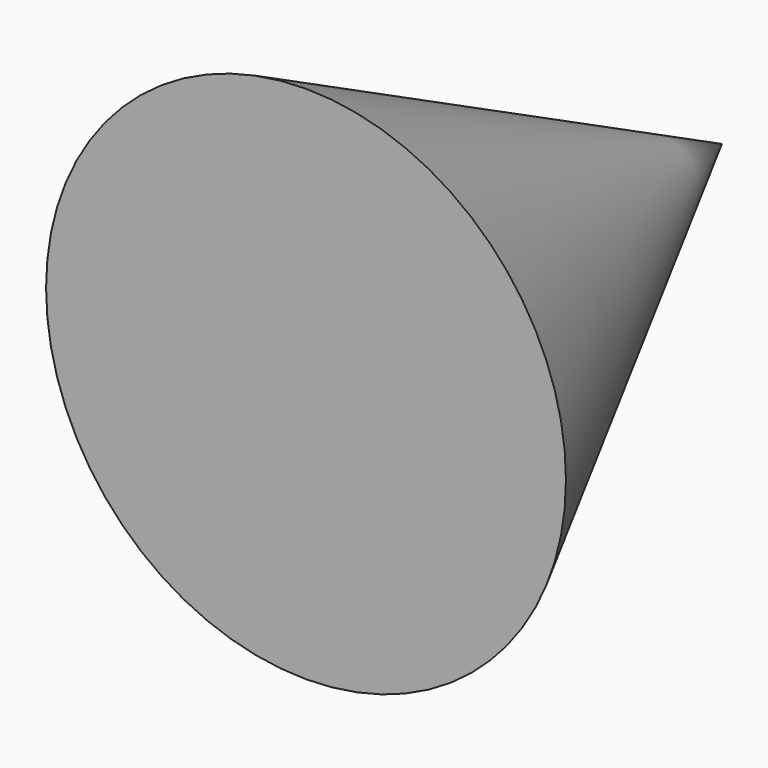
from build123d import *


with BuildPart() as f2:
    # F0 (on Top) → F2 (revolve)
    with BuildSketch(Plane.XY):
        Polygon((0, 50.8), (0, 0), (25.4, 0), align=None)
    revolve(axis=Axis((0, 0, 0), (0, -1, 0)))


solid = f2.part
